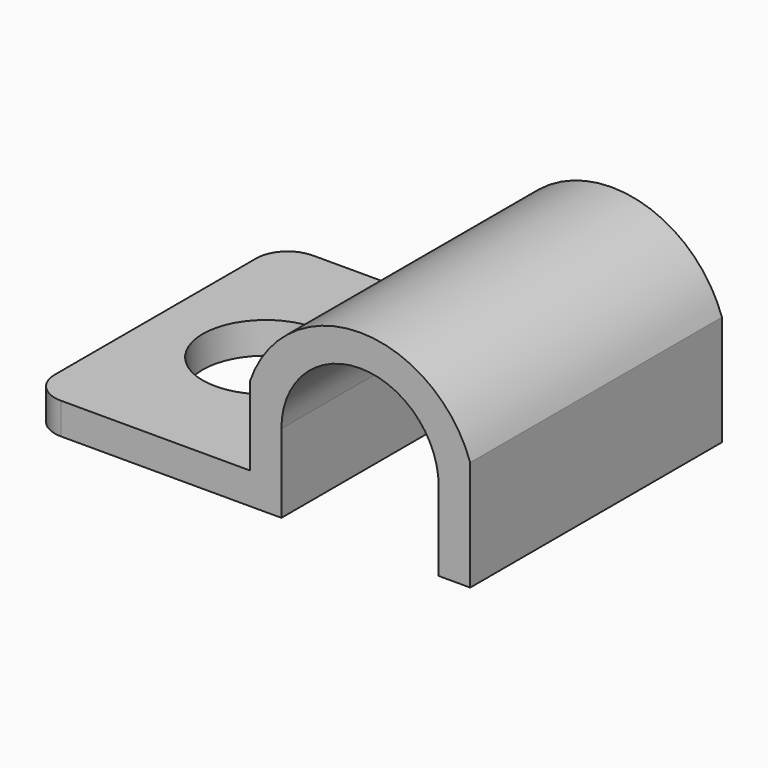
from build123d import *

# Parameters (mm, degrees)
PAD_DEPTH       = 10
POCKET_DEPTH    = 10.001
SKETCH002_W     = 1
SKETCH002_H     = 10
PAD001_DEPTH    = 7
SKETCH003_R     = 2
POCKET001_DEPTH = 5
FILLET_R        = 1


with BuildPart() as part:
    # Sketch → Pad (new body)
    with BuildSketch(Plane.XZ):
        with BuildLine():
            ThreePointArc((3.5, 3.5), (0, 6), (-3.5, 3.5))
            Line((-3.5, 3.5), (-3.5, 0))
            Line((-3.5, 0), (3.5, 0))
            Line((3.5, 0), (3.5, 3.5))
        make_face()
    extrude(amount=PAD_DEPTH)

    # Sketch001 (on Face6 of Pad) → Pocket (cut, through all)
    with BuildSketch(Plane.XZ.offset(10)):
        with BuildLine():
            ThreePointArc((2.5, 2.5), (0, 5), (-2.5, 2.5))
            Line((-2.5, 2.5), (-2.5, 0))
            Line((-2.5, 0), (2.5, 0))
            Line((2.5, 0), (2.5, 2.5))
        make_face()
    extrude(amount=-POCKET_DEPTH, mode=Mode.SUBTRACT)

    # Sketch002 (on Face3 of Pocket) → Pad001 (join)
    with BuildSketch(Plane(origin=(-3.5, 0, 0), x_dir=(0, 0, -1), z_dir=(-1, 0, 0))):
        with Locations((-0.5, 5)):
            Rectangle(SKETCH002_W, SKETCH002_H)
    extrude(amount=PAD001_DEPTH)

    # Sketch003 (on Face7 of Pad001) → Pocket001 (cut)
    with BuildSketch(Plane(origin=(0, 0, 1), x_dir=(-1, 0, 0), z_dir=(0, 0, 1))):
        with Locations((7, 5)):
            Circle(SKETCH003_R)
    extrude(amount=-POCKET001_DEPTH, mode=Mode.SUBTRACT)

    # Fillet
    fillet_edges = [part.edges().sort_by_distance(p)[0] for p in [
        (-10.5, -10, 0.5),
        (-10.5, 0, 0.5),
    ]]
    fillet(fillet_edges, radius=FILLET_R)


solid = part.part
